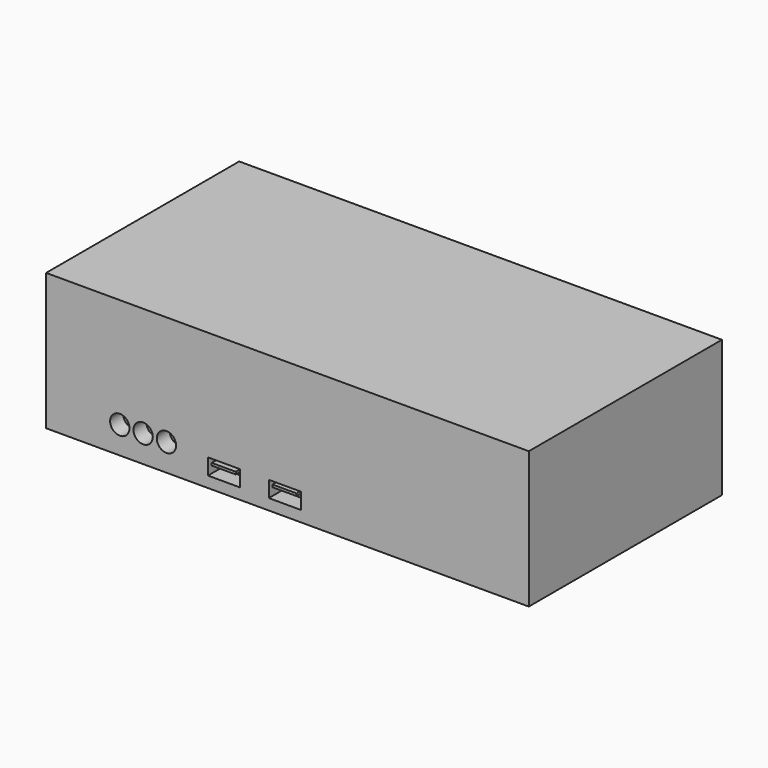
from build123d import *

# Parameters (mm, degrees)
F0_W      = 76.2
F0_H      = 21.59
F1_DEPTH  = 38.1
F2_W      = 5.08
F2_H      = 2.54
F2_R      = 1.524
F3_DEPTH  = 2.54
F4_R      = 0.254
F5_DEPTH  = 0.508
F6_R      = 0.254
F7_DEPTH  = 0.508
F8_R      = 0.254
F9_DEPTH  = 0.508
F10_W     = 3.81
F10_H     = 0.381
F11_DEPTH = 2.54
F12_W     = 3.81
F12_H     = 0.381
F13_DEPTH = 2.54


with BuildPart() as f1:
    # F0 (on Front) → F1 (new body)
    with BuildSketch(Plane.XZ):
        with Locations((-19.461152, 16.838921)):
            Rectangle(F0_W, F0_H)
    extrude(amount=F1_DEPTH)

    # F2 (on face) → F3 (cut)
    with BuildSketch(Plane.XZ.offset(38.1)):
        with Locations((-19.865747, 9.044795)):
            Rectangle(F2_W, F2_H)
        with Locations((-29.470715, 9.044795)):
            Rectangle(F2_W, F2_H)
        with Locations((-38.560475, 10.314795)):
            Circle(F2_R)
        with Locations((-42.243475, 10.314795)):
            Circle(F2_R)
        with Locations((-45.926475, 10.314795)):
            Circle(F2_R)
    extrude(amount=-F3_DEPTH, mode=Mode.SUBTRACT)

    # F4 (on face) → F5 (cut)
    with BuildSketch(Plane.XZ.offset(35.56)):
        with Locations((-42.243475, 10.314795)):
            Circle(F4_R)
    extrude(amount=-F5_DEPTH, mode=Mode.SUBTRACT)

    # F6 (on face) → F7 (cut)
    with BuildSketch(Plane.XZ.offset(35.56)):
        with Locations((-38.560475, 10.314795)):
            Circle(F6_R)
    extrude(amount=-F7_DEPTH, mode=Mode.SUBTRACT)

    # F8 (on face) → F9 (cut)
    with BuildSketch(Plane.XZ.offset(35.56)):
        with Locations((-45.926475, 10.314795)):
            Circle(F8_R)
    extrude(amount=-F9_DEPTH, mode=Mode.SUBTRACT)

    # F10 (on face) → F11 (join, through all)
    with BuildSketch(Plane.XZ.offset(35.56)):
        with Locations((-29.515222, 9.548081)):
            Rectangle(F10_W, F10_H)
    extrude(amount=F11_DEPTH)

    # F12 (on face) → F13 (join, through all)
    with BuildSketch(Plane.XZ.offset(35.56)):
        with Locations((-19.929768, 9.660184)):
            Rectangle(F12_W, F12_H)
    extrude(amount=F13_DEPTH)


solid = f1.part
